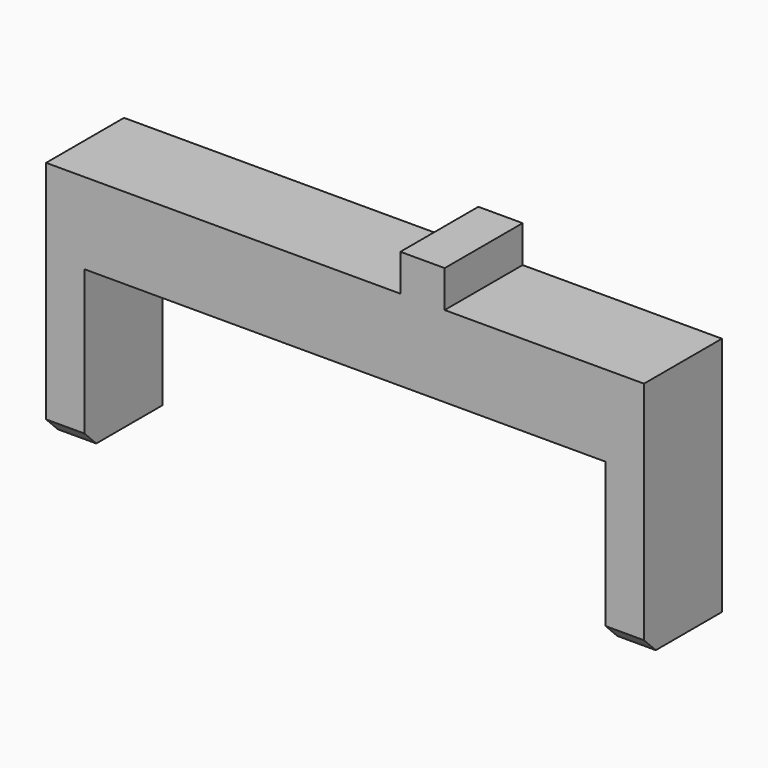
from build123d import *

# Parameters (mm, degrees)
F1_DEPTH = 33
F2_SIZE  = 5
F3_SIZE  = 5


with BuildPart() as f1:
    # F0 (on Front) → F1 (new body)
    with BuildSketch(Plane.XZ):
        Polygon((0, 81.5), (0, 0), (13, 0), (13, 54), (189.5, 54), (189.5, 0), (202.5, 0), (202.5, 81.5), (135, 81.5), (135, 94), (120, 94), (120, 81.5), align=None)
    extrude(amount=F1_DEPTH)

    # F2
    f2_edges = [f1.edges().sort_by_distance(p)[0] for p in [
        (6.5, -33, 0),
    ]]
    chamfer(f2_edges, length=F2_SIZE)

    # F3
    f3_edges = [f1.edges().sort_by_distance(p)[0] for p in [
        (196, -33, 0),
    ]]
    chamfer(f3_edges, length=F3_SIZE)


solid = f1.part
